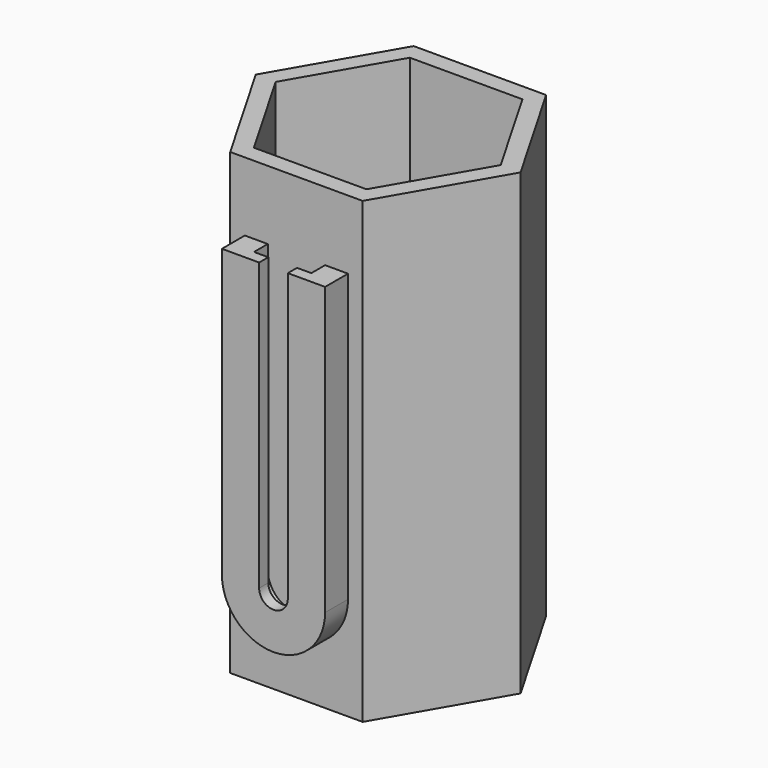
from build123d import *

# Parameters (mm, degrees)
F1_DEPTH = 80
F3_DEPTH = 5
F5_DEPTH = 3
F7_DEPTH = 2


with BuildPart() as f1:
    # F0 (on Top) → F1 (new body)
    with BuildSketch(Plane.XY):
        Polygon((11.547005, 20), (-11.547005, 20), (-23.094011, 0), (-11.547005, -20), (11.547005, -20), (23.094011, 0), align=None)
        Polygon((-9.814955, -17), (-19.629909, 0), (-9.814955, 17), (9.814955, 17), (19.629909, 0), (9.814955, -17), align=None, mode=Mode.SUBTRACT)
    extrude(amount=F1_DEPTH)

    # F2 (on Top) → F3 (join)
    with BuildSketch(Plane.XY):
        Polygon((11.547005, 20), (-11.547005, 20), (-23.094011, 0), (-11.547005, -20), (11.547005, -20), (23.094011, 0), align=None)
    extrude(amount=F3_DEPTH)

    # F4 (on face) → F5 (join)
    with BuildSketch(Plane.XZ.offset(20)):
        with BuildLine():
            Line((-5, 18), (-5, 68))
            Line((-5, 68), (-9, 68))
            Line((-9, 68), (-9, 18))
            ThreePointArc((-9, 18), (0, 9), (9, 18))
            Line((9, 18), (9, 68))
            Line((9, 68), (5, 68))
            Line((5, 68), (5, 18))
            ThreePointArc((5, 18), (0, 13), (-5, 18))
        make_face()
    extrude(amount=F5_DEPTH)

    # F6 (on face) → F7 (join)
    with BuildSketch(Plane.XZ.offset(23)):
        with BuildLine():
            Line((-2.5, 68), (-9, 68))
            Line((-9, 68), (-9, 18))
            ThreePointArc((-9, 18), (0, 9), (9, 18))
            Line((9, 18), (9, 68))
            Line((9, 68), (2.5, 68))
            Line((2.5, 68), (2.5, 18))
            ThreePointArc((2.5, 18), (0, 15.5), (-2.5, 18))
            Line((-2.5, 18), (-2.5, 68))
        make_face()
    extrude(amount=F7_DEPTH)


solid = f1.part
